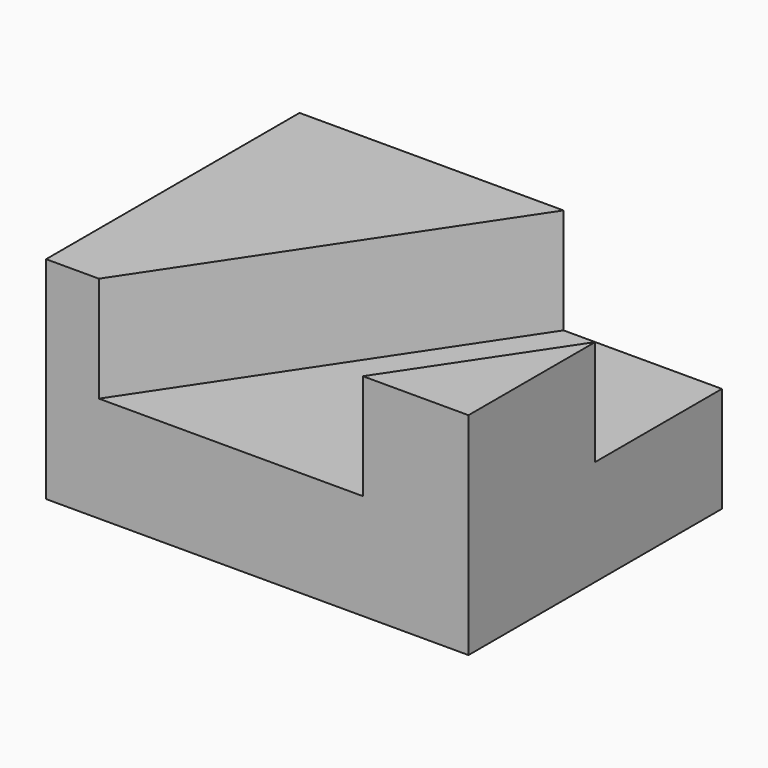
from build123d import *

# Parameters (mm, degrees)
F0_W     = 101.6
F0_H     = 76.2
F1_DEPTH = 25.4
F3_DEPTH = 25.4


with BuildPart() as f1:
    # F0 (on Top) → F1 (new body)
    with BuildSketch(Plane.XY):
        with Locations((-0.50544, -33.672225)):
            Rectangle(F0_W, F0_H)
    extrude(amount=F1_DEPTH)

    # F2 (on face) → F3 (join)
    with BuildSketch(Plane.XY.offset(25.4)):
        Polygon((50.29456, -33.672225), (24.89456, -71.772225), (50.29456, -71.772225), align=None)
        Polygon((-51.30544, 4.427775), (-51.30544, -71.772225), (-38.60544, -71.772225), (12.19456, 4.427775), align=None)
    extrude(amount=F3_DEPTH)


solid = f1.part
